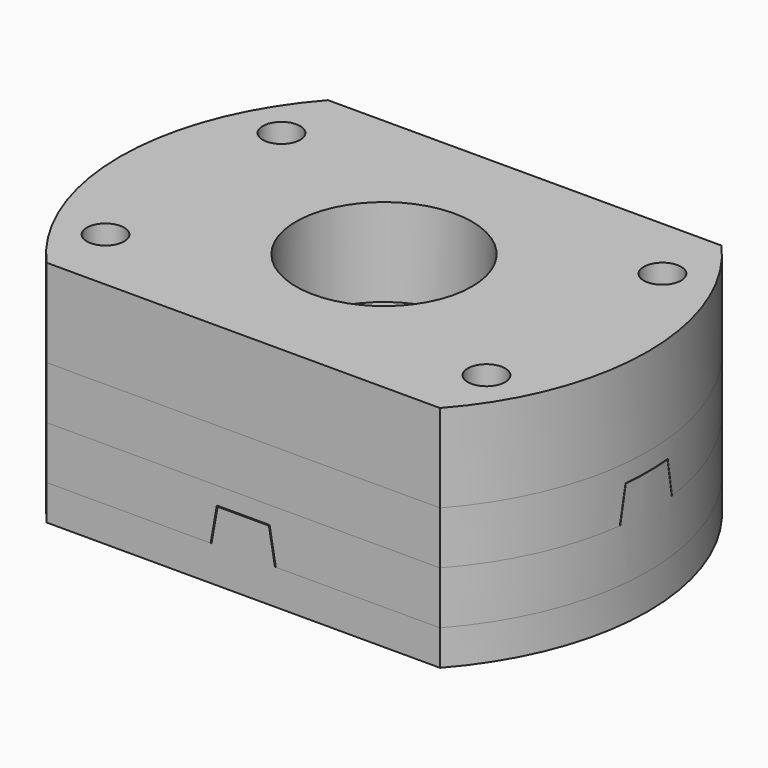
from build123d import *

# Parameters (mm, degrees)
F0_R          = 2.125
F0_R_2        = 10
F1_DEPTH      = 10
F3_DEPTH      = 50
F3_DEPTH_BACK = 50
F6_DEPTH      = 50
F6_DEPTH_BACK = 50
F8_DEPTH      = 40.001
F10_DEPTH     = 40
F4_R          = 12
F4_R_2        = 10
F11_DEPTH     = 25
F12_R         = 1.75
F13_DEPTH     = 50


with BuildPart() as f1:
    # F0 (on Top) → F1 (new body)
    with BuildSketch(Plane.XY):
        with BuildLine():
            Line((22.36068, 20), (-22.36068, 20))
            ThreePointArc((-22.36068, 20), (-30, 0), (-22.36068, -20))
            Line((-22.36068, -20), (22.36068, -20))
            ThreePointArc((22.36068, -20), (30, 0), (22.36068, 20))
        make_face()
        with Locations((-21.650635, -12.5)):
            Circle(F0_R, mode=Mode.SUBTRACT)
        with Locations((21.650635, -12.5)):
            Circle(F0_R, mode=Mode.SUBTRACT)
        Circle(F0_R_2, mode=Mode.SUBTRACT)
        with Locations((-21.650635, 12.5)):
            Circle(F0_R, mode=Mode.SUBTRACT)
        with Locations((21.650635, 12.5)):
            Circle(F0_R, mode=Mode.SUBTRACT)
    extrude(amount=F1_DEPTH)


with BuildPart() as f3:
    # F2 (on Right) → F3 (new body, two sides)
    with BuildSketch(Plane.YZ) as f3_sk:
        Polygon((20, 0), (-20, 0), (-20, -6), (-3.705308, -6), (-3, -2), (3, -2), (3.705308, -6), (20, -6), align=None)
    extrude(amount=F3_DEPTH)
    extrude(f3_sk.sketch, amount=-F3_DEPTH_BACK)


with BuildPart() as f6:
    # F5 (on Right) → F6 (new body, two sides)
    with BuildSketch(Plane.YZ) as f6_sk:
        Polygon((-3.654537, -6), (-20, -6), (-20, -12), (20, -12), (20, -6), (3.654537, -6), (2.958045, -2.05), (-2.958045, -2.05), align=None)
    extrude(amount=F6_DEPTH)
    extrude(f6_sk.sketch, amount=-F6_DEPTH_BACK)

    # F7 (on face) → F8 (cut, through all)
    with BuildSketch(Plane(origin=(0, 20, 0), x_dir=(-1, 0, 0), z_dir=(0, 1, 0))):
        Polygon((-3, -8), (-3.705308, -12), (3.705308, -12), (3, -8), align=None)
    extrude(amount=-F8_DEPTH, mode=Mode.SUBTRACT)


with BuildPart() as f10:
    # F9 (on face) → F10 (new body)
    with BuildSketch(Plane(origin=(0, 20, 0), x_dir=(-1, 0, 0), z_dir=(0, 1, 0))):
        Polygon((-3.603765, -12), (-36.520239, -12), (-36.520239, -16), (37.248045, -16), (37.248045, -12), (3.603765, -12), (2.91609, -8.1), (-2.91609, -8.1), align=None)
    extrude(amount=-F10_DEPTH)


with BuildPart() as f11_tool:
    # F4 (on face) → F11 (new body)
    with BuildSketch(Plane.XY):
        with BuildLine():
            ThreePointArc((22.36068, 20), (30, 0), (22.36068, -20))
            Line((22.36068, -20), (50, -20))
            Line((50, -20), (50, 20))
            Line((50, 20), (22.36068, 20))
        make_face()
        with BuildLine():
            ThreePointArc((-22.36068, -20), (-30, 0), (-22.36068, 20))
            Line((-22.36068, 20), (-50, 20))
            Line((-50, 20), (-50, -20))
            Line((-50, -20), (-22.36068, -20))
        make_face()
        Circle(F4_R)
        Circle(F4_R_2, mode=Mode.SUBTRACT)
    extrude(amount=-F11_DEPTH)


with BuildPart() as f3_1:
    add(f3.part)

    # F11: cut by f11_tool
    add(f11_tool.part, mode=Mode.SUBTRACT)


with BuildPart() as f6_1:
    add(f6.part)

    # F11: cut by f11_tool
    add(f11_tool.part, mode=Mode.SUBTRACT)


with BuildPart() as f10_1:
    add(f10.part)

    # F11: cut by f11_tool
    add(f11_tool.part, mode=Mode.SUBTRACT)


with BuildPart() as f13_tool:
    # F12 (on face) → F13 (new body)
    with BuildSketch(Plane.XY.offset(10)):
        with Locations((21.650635, -12.5)):
            Circle(F12_R)
        with Locations((21.650635, 12.5)):
            Circle(F12_R)
        with Locations((-21.650635, -12.5)):
            Circle(F12_R)
        with Locations((-21.650635, 12.5)):
            Circle(F12_R)
    extrude(amount=-F13_DEPTH)


with BuildPart() as f3_2:
    add(f3_1.part)

    # F13: cut by f13_tool
    add(f13_tool.part, mode=Mode.SUBTRACT)


with BuildPart() as f6_2:
    add(f6_1.part)

    # F13: cut by f13_tool
    add(f13_tool.part, mode=Mode.SUBTRACT)


with BuildPart() as f10_2:
    add(f10_1.part)

    # F13: cut by f13_tool
    add(f13_tool.part, mode=Mode.SUBTRACT)


solid = Compound([f1.part, f3_2.part, f6_2.part, f10_2.part])
